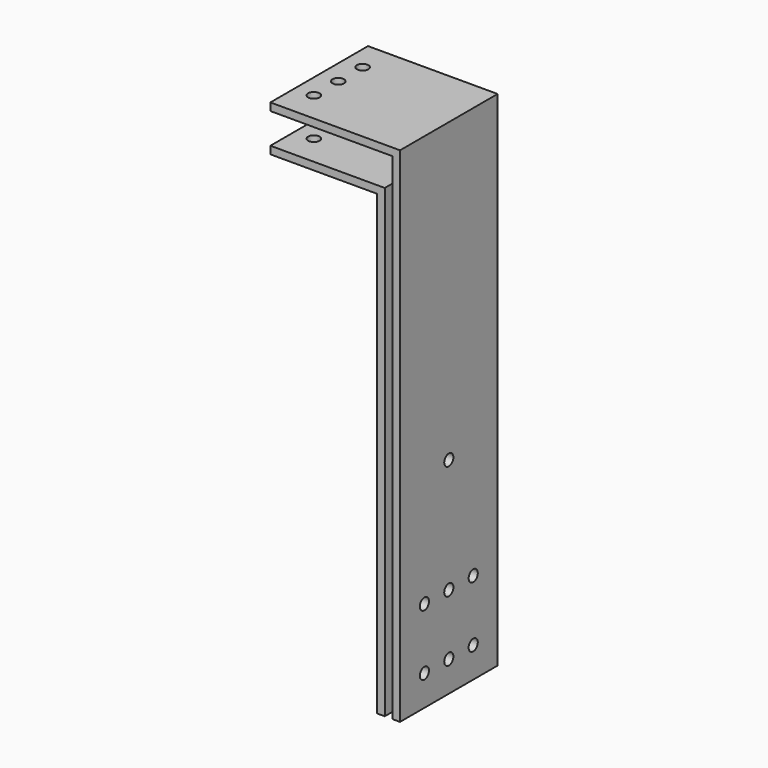
from build123d import *

# Parameters (mm, degrees)
F1_DEPTH = 50.8
F2_R     = 4.7625
F3_DEPTH = 107.951
F4_R     = 4.7625
F5_DEPTH = 419.101


with BuildPart() as f1:
    # F0 (on Front) → F1 (new body, symmetric)
    with BuildSketch(Plane.XZ):
        Polygon((-43.721065, 109.265013), (-138.971065, 109.265013), (-138.971065, 102.915013), (-50.071065, 102.915013), (-50.071065, -278.084987), (-43.721065, -278.084987), align=None)
        Polygon((-138.971065, 134.665013), (-37.371065, 134.665013), (-37.371065, -278.084987), (-31.021065, -278.084987), (-31.021065, 141.015013), (-138.971065, 141.015013), align=None)
    extrude(amount=F1_DEPTH, both=True)

    # F2 (on face) → F3 (cut, through all)
    with BuildSketch(Plane.YZ.offset(-31.021065)):
        with Locations((-25.4, -252.684987)):
            Circle(F2_R)
        with Locations((-25.4, -201.884987)):
            Circle(F2_R)
        with Locations((0, -252.684987)):
            Circle(F2_R)
        with Locations((0, -201.884987)):
            Circle(F2_R)
        with Locations((25.4, -252.684987)):
            Circle(F2_R)
        with Locations((25.4, -201.884987)):
            Circle(F2_R)
        with Locations((0, -106.634987)):
            Circle(F2_R)
    extrude(amount=-F3_DEPTH, mode=Mode.SUBTRACT)

    # F4 (on face) → F5 (cut, through all)
    with BuildSketch(Plane.XY.offset(141.015013)):
        with Locations((-123.096065, -25.4)):
            Circle(F4_R)
        with Locations((-123.096065, 0)):
            Circle(F4_R)
        with Locations((-123.096065, 25.4)):
            Circle(F4_R)
    extrude(amount=-F5_DEPTH, mode=Mode.SUBTRACT)


solid = f1.part
